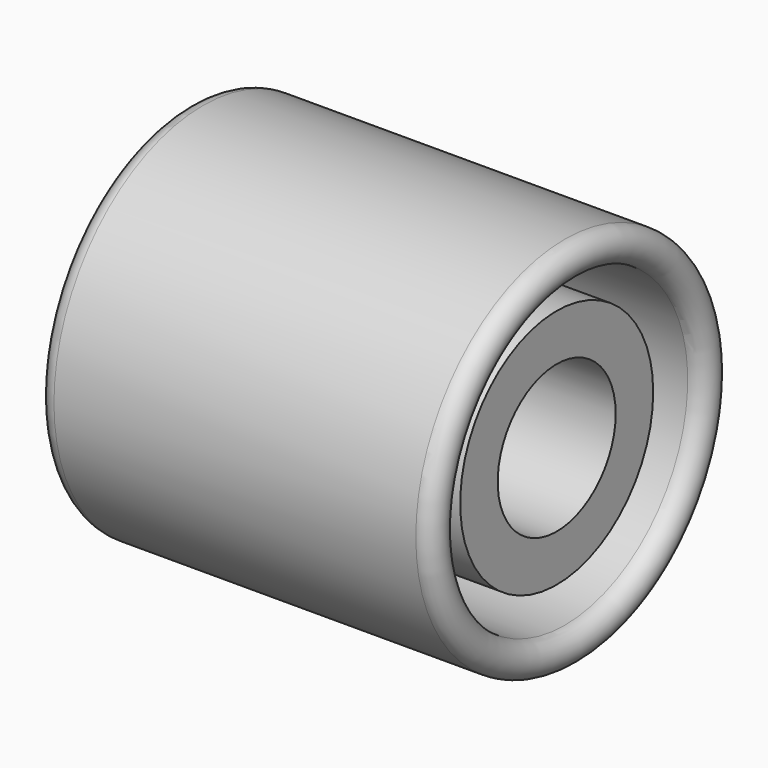
from build123d import *

# Parameters (mm, degrees)
F0_R     = 22
F0_R_2   = 13.45
F1_DEPTH = 63


with BuildPart() as f1:
    # F0 (on Right) → F1 (new body)
    with BuildSketch(Plane.YZ):
        Circle(F0_R)
        Circle(F0_R_2, mode=Mode.SUBTRACT)
    extrude(amount=F1_DEPTH)

    # F2 (on Front) → F3 (revolve)
    with BuildSketch(Plane.XZ):
        with BuildLine():
            Line((64.5, 34), (-1.5, 34))
            ThreePointArc((-1.5, 34), (-4.5, 31), (-1.5, 28))
            Line((-1.5, 28), (25.5, 28))
            ThreePointArc((25.5, 28), (28.5, 25), (25.5, 22))
            Line((25.5, 22), (37.5, 22))
            ThreePointArc((37.5, 22), (34.5, 25), (37.5, 28))
            Line((37.5, 28), (64.5, 28))
            ThreePointArc((64.5, 28), (67.5, 31), (64.5, 34))
        make_face()
    revolve(axis=Axis((0, 0, 0), (-1, 0, 0)))


solid = f1.part
